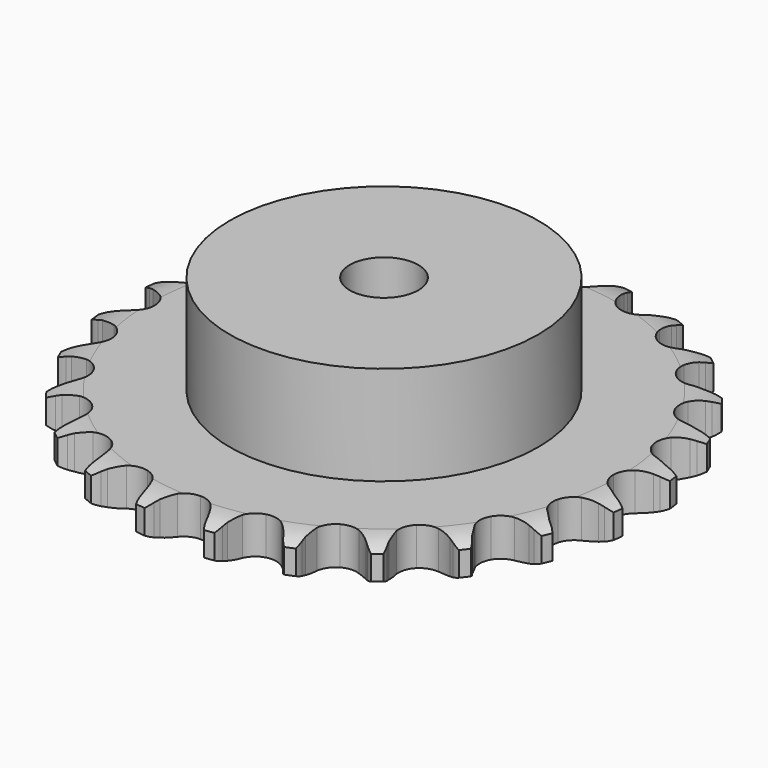
from build123d import *

# Parameters (mm, degrees)
PAD_DEPTH         = 11.1
SKETCH001_R       = 45
PAD001_DEPTH      = 40
SKETCH002_R       = 10
POCKET_DEPTH      = 0.001
POCKET_DEPTH_BACK = 40.001


with BuildPart() as part:
    # Sprocket → Pad (new body)
    with BuildSketch(Plane.XY):
        with BuildLine():
            ThreePointArc((-10.307817, 78.29564), (-8.698653, 76.541305), (-7.554291, 74.453833))
            Line((-7.554291, 74.453833), (-6.968236, 72.99106))
            ThreePointArc((-6.968236, 72.99106), (-6.032923, 71.051956), (-4.842054, 69.258421))
            ThreePointArc((-4.842054, 69.258421), (-2.69941, 67.499998), (0, 66.870584))
            ThreePointArc((0, 66.870584), (2.69941, 67.499998), (4.842054, 69.258421))
            ThreePointArc((4.842054, 69.258421), (6.032923, 71.051956), (6.968236, 72.99106))
            Line((6.968236, 72.99106), (7.554291, 74.453833))
            ThreePointArc((7.554291, 74.453833), (8.698653, 76.541305), (10.307817, 78.29564))
            ThreePointArc((10.307817, 78.29564), (11.408094, 76.1846), (11.973185, 73.872074))
            Line((11.973185, 73.872074), (12.160677, 72.307462))
            ThreePointArc((12.160677, 72.307462), (12.562243, 70.192354), (13.248334, 68.151713))
            ThreePointArc((13.248334, 68.151713), (14.862856, 65.89865), (17.307381, 64.592024))
            ThreePointArc((17.307381, 64.592024), (20.077714, 64.501333), (22.602463, 65.645282))
            Line((22.602463, 65.645282), (25.622276, 68.700438))
            ThreePointArc((25.622276, 68.700438), (26.078841, 69.342877), (26.566954, 69.961685))
            ThreePointArc((26.566954, 69.961685), (28.212601, 71.681846), (30.220989, 72.959922))
            ThreePointArc((30.220989, 72.959922), (30.737398, 70.63604), (30.684708, 68.256056))
            Line((30.684708, 68.256056), (30.46086, 66.696231))
            ThreePointArc((30.46086, 66.696231), (30.301313, 64.54926), (30.435869, 62.400579))
            ThreePointArc((30.435869, 62.400579), (31.412242, 59.806418), (33.435292, 57.911625))
            ThreePointArc((33.435292, 57.911625), (36.087756, 57.107009), (38.822552, 57.558525))
            Line((38.822552, 57.558525), (42.5302, 59.727994))
            ThreePointArc((42.5302, 59.727994), (43.137483, 60.230375), (43.769124, 60.701765))
            ThreePointArc((43.769124, 60.701765), (45.803906, 61.937388), (48.074651, 62.652105))
            ThreePointArc((48.074651, 62.652105), (47.971999, 60.273752), (47.30512, 57.9885))
            Line((47.30512, 57.9885), (46.685186, 56.539761))
            ThreePointArc((46.685186, 56.539761), (45.975399, 54.507241), (45.54925, 52.396948))
            ThreePointArc((45.54925, 52.396948), (45.820936, 49.638477), (47.284644, 47.284644))
            ThreePointArc((47.284644, 47.284644), (49.638477, 45.820936), (52.396948, 45.54925))
            Line((52.396948, 45.54925), (56.539761, 46.685186))
            ThreePointArc((56.539761, 46.685186), (57.256377, 47.013272), (57.9885, 47.30512))
            ThreePointArc((57.9885, 47.30512), (60.273752, 47.971999), (62.652105, 48.074651))
            ThreePointArc((62.652105, 48.074651), (61.937388, 45.803906), (60.701765, 43.769124))
            Line((60.701765, 43.769124), (59.727994, 42.5302))
            ThreePointArc((59.727994, 42.5302), (58.516337, 40.750643), (57.558525, 38.822552))
            ThreePointArc((57.558525, 38.822552), (57.107009, 36.087756), (57.911625, 33.435292))
            ThreePointArc((57.911625, 33.435292), (59.806418, 31.412242), (62.400579, 30.435869))
            Line((62.400579, 30.435869), (66.696231, 30.46086))
            ThreePointArc((66.696231, 30.46086), (67.473344, 30.592293), (68.256056, 30.684708))
            ThreePointArc((68.256056, 30.684708), (70.63604, 30.737398), (72.959922, 30.220989))
            ThreePointArc((72.959922, 30.220989), (71.681846, 28.212601), (69.961685, 26.566954))
            Line((69.961685, 26.566954), (68.700438, 25.622276))
            ThreePointArc((68.700438, 25.622276), (67.069483, 24.216956), (65.645282, 22.602463))
            ThreePointArc((65.645282, 22.602463), (64.501333, 20.077714), (64.592024, 17.307381))
            ThreePointArc((64.592024, 17.307381), (65.89865, 14.862856), (68.151713, 13.248334))
            Line((68.151713, 13.248334), (72.307462, 12.160677))
            ThreePointArc((72.307462, 12.160677), (73.092113, 12.0865), (73.872074, 11.973185))
            ThreePointArc((73.872074, 11.973185), (76.1846, 11.408094), (78.29564, 10.307817))
            ThreePointArc((78.29564, 10.307817), (76.541305, 8.698653), (74.453833, 7.554291))
            Line((74.453833, 7.554291), (72.99106, 6.968236))
            ThreePointArc((72.99106, 6.968236), (71.051956, 6.032923), (69.258421, 4.842054))
            ThreePointArc((69.258421, 4.842054), (67.499998, 2.69941), (66.870584, 0))
            ThreePointArc((66.870584, 0), (67.499998, -2.69941), (69.258421, -4.842054))
            Line((69.258421, -4.842054), (72.99106, -6.968236))
            ThreePointArc((72.99106, -6.968236), (73.729776, -7.242969), (74.453833, -7.554291))
            ThreePointArc((74.453833, -7.554291), (76.541305, -8.698653), (78.29564, -10.307817))
            ThreePointArc((78.29564, -10.307817), (76.1846, -11.408094), (73.872074, -11.973185))
            Line((73.872074, -11.973185), (72.307462, -12.160677))
            ThreePointArc((72.307462, -12.160677), (70.192354, -12.562243), (68.151713, -13.248334))
            ThreePointArc((68.151713, -13.248334), (65.89865, -14.862856), (64.592024, -17.307381))
            ThreePointArc((64.592024, -17.307381), (64.501333, -20.077714), (65.645282, -22.602463))
            Line((65.645282, -22.602463), (68.700438, -25.622276))
            ThreePointArc((68.700438, -25.622276), (69.342877, -26.078841), (69.961685, -26.566954))
            ThreePointArc((69.961685, -26.566954), (71.681846, -28.212601), (72.959922, -30.220989))
            ThreePointArc((72.959922, -30.220989), (70.63604, -30.737398), (68.256056, -30.684708))
            Line((68.256056, -30.684708), (66.696231, -30.46086))
            ThreePointArc((66.696231, -30.46086), (64.54926, -30.301313), (62.400579, -30.435869))
            ThreePointArc((62.400579, -30.435869), (59.806418, -31.412242), (57.911625, -33.435292))
            ThreePointArc((57.911625, -33.435292), (57.107009, -36.087756), (57.558525, -38.822552))
            Line((57.558525, -38.822552), (59.727994, -42.5302))
            ThreePointArc((59.727994, -42.5302), (60.230375, -43.137483), (60.701765, -43.769124))
            ThreePointArc((60.701765, -43.769124), (61.937388, -45.803906), (62.652105, -48.074651))
            ThreePointArc((62.652105, -48.074651), (60.273752, -47.971999), (57.9885, -47.30512))
            Line((57.9885, -47.30512), (56.539761, -46.685186))
            ThreePointArc((56.539761, -46.685186), (54.507241, -45.975399), (52.396948, -45.54925))
            ThreePointArc((52.396948, -45.54925), (49.638477, -45.820936), (47.284644, -47.284644))
            ThreePointArc((47.284644, -47.284644), (45.820936, -49.638477), (45.54925, -52.396948))
            Line((45.54925, -52.396948), (46.685186, -56.539761))
            ThreePointArc((46.685186, -56.539761), (47.013272, -57.256377), (47.30512, -57.9885))
            ThreePointArc((47.30512, -57.9885), (47.971999, -60.273752), (48.074651, -62.652105))
            ThreePointArc((48.074651, -62.652105), (45.803906, -61.937388), (43.769124, -60.701765))
            Line((43.769124, -60.701765), (42.5302, -59.727994))
            ThreePointArc((42.5302, -59.727994), (40.750643, -58.516337), (38.822552, -57.558525))
            ThreePointArc((38.822552, -57.558525), (36.087756, -57.107009), (33.435292, -57.911625))
            ThreePointArc((33.435292, -57.911625), (31.412242, -59.806418), (30.435869, -62.400579))
            Line((30.435869, -62.400579), (30.46086, -66.696231))
            ThreePointArc((30.46086, -66.696231), (30.592293, -67.473344), (30.684708, -68.256056))
            ThreePointArc((30.684708, -68.256056), (30.737398, -70.63604), (30.220989, -72.959922))
            ThreePointArc((30.220989, -72.959922), (28.212601, -71.681846), (26.566954, -69.961685))
            Line((26.566954, -69.961685), (25.622276, -68.700438))
            ThreePointArc((25.622276, -68.700438), (24.216956, -67.069483), (22.602463, -65.645282))
            ThreePointArc((22.602463, -65.645282), (20.077714, -64.501333), (17.307381, -64.592024))
            ThreePointArc((17.307381, -64.592024), (14.862856, -65.89865), (13.248334, -68.151713))
            Line((13.248334, -68.151713), (12.160677, -72.307462))
            ThreePointArc((12.160677, -72.307462), (12.0865, -73.092113), (11.973185, -73.872074))
            ThreePointArc((11.973185, -73.872074), (11.408094, -76.1846), (10.307817, -78.29564))
            ThreePointArc((10.307817, -78.29564), (8.698653, -76.541305), (7.554291, -74.453833))
            Line((7.554291, -74.453833), (6.968236, -72.99106))
            ThreePointArc((6.968236, -72.99106), (6.032923, -71.051956), (4.842054, -69.258421))
            ThreePointArc((4.842054, -69.258421), (2.69941, -67.499998), (0, -66.870584))
            ThreePointArc((0, -66.870584), (-2.69941, -67.499998), (-4.842054, -69.258421))
            Line((-4.842054, -69.258421), (-6.968236, -72.99106))
            ThreePointArc((-6.968236, -72.99106), (-7.242969, -73.729776), (-7.554291, -74.453833))
            ThreePointArc((-7.554291, -74.453833), (-8.698653, -76.541305), (-10.307817, -78.29564))
            ThreePointArc((-10.307817, -78.29564), (-11.408094, -76.1846), (-11.973185, -73.872074))
            Line((-11.973185, -73.872074), (-12.160677, -72.307462))
            ThreePointArc((-12.160677, -72.307462), (-12.562243, -70.192354), (-13.248334, -68.151713))
            ThreePointArc((-13.248334, -68.151713), (-14.862856, -65.89865), (-17.307381, -64.592024))
            ThreePointArc((-17.307381, -64.592024), (-20.077714, -64.501333), (-22.602463, -65.645282))
            Line((-22.602463, -65.645282), (-25.622276, -68.700438))
            ThreePointArc((-25.622276, -68.700438), (-26.078841, -69.342877), (-26.566954, -69.961685))
            ThreePointArc((-26.566954, -69.961685), (-28.212601, -71.681846), (-30.220989, -72.959922))
            ThreePointArc((-30.220989, -72.959922), (-30.737398, -70.63604), (-30.684708, -68.256056))
            Line((-30.684708, -68.256056), (-30.46086, -66.696231))
            ThreePointArc((-30.46086, -66.696231), (-30.301313, -64.54926), (-30.435869, -62.400579))
            ThreePointArc((-30.435869, -62.400579), (-31.412242, -59.806418), (-33.435292, -57.911625))
            ThreePointArc((-33.435292, -57.911625), (-36.087756, -57.107009), (-38.822552, -57.558525))
            Line((-38.822552, -57.558525), (-42.5302, -59.727994))
            ThreePointArc((-42.5302, -59.727994), (-43.137483, -60.230375), (-43.769124, -60.701765))
            ThreePointArc((-43.769124, -60.701765), (-45.803906, -61.937388), (-48.074651, -62.652105))
            ThreePointArc((-48.074651, -62.652105), (-47.971999, -60.273752), (-47.30512, -57.9885))
            Line((-47.30512, -57.9885), (-46.685186, -56.539761))
            ThreePointArc((-46.685186, -56.539761), (-45.975399, -54.507241), (-45.54925, -52.396948))
            ThreePointArc((-45.54925, -52.396948), (-45.820936, -49.638477), (-47.284644, -47.284644))
            ThreePointArc((-47.284644, -47.284644), (-49.638477, -45.820936), (-52.396948, -45.54925))
            Line((-52.396948, -45.54925), (-56.539761, -46.685186))
            ThreePointArc((-56.539761, -46.685186), (-57.256377, -47.013272), (-57.9885, -47.30512))
            ThreePointArc((-57.9885, -47.30512), (-60.273752, -47.971999), (-62.652105, -48.074651))
            ThreePointArc((-62.652105, -48.074651), (-61.937388, -45.803906), (-60.701765, -43.769124))
            Line((-60.701765, -43.769124), (-59.727994, -42.5302))
            ThreePointArc((-59.727994, -42.5302), (-58.516337, -40.750643), (-57.558525, -38.822552))
            ThreePointArc((-57.558525, -38.822552), (-57.107009, -36.087756), (-57.911625, -33.435292))
            ThreePointArc((-57.911625, -33.435292), (-59.806418, -31.412242), (-62.400579, -30.435869))
            Line((-62.400579, -30.435869), (-66.696231, -30.46086))
            ThreePointArc((-66.696231, -30.46086), (-67.473344, -30.592293), (-68.256056, -30.684708))
            ThreePointArc((-68.256056, -30.684708), (-70.63604, -30.737398), (-72.959922, -30.220989))
            ThreePointArc((-72.959922, -30.220989), (-71.681846, -28.212601), (-69.961685, -26.566954))
            Line((-69.961685, -26.566954), (-68.700438, -25.622276))
            ThreePointArc((-68.700438, -25.622276), (-67.069483, -24.216956), (-65.645282, -22.602463))
            ThreePointArc((-65.645282, -22.602463), (-64.501333, -20.077714), (-64.592024, -17.307381))
            ThreePointArc((-64.592024, -17.307381), (-65.89865, -14.862856), (-68.151713, -13.248334))
            Line((-68.151713, -13.248334), (-72.307462, -12.160677))
            ThreePointArc((-72.307462, -12.160677), (-73.092113, -12.0865), (-73.872074, -11.973185))
            ThreePointArc((-73.872074, -11.973185), (-76.1846, -11.408094), (-78.29564, -10.307817))
            ThreePointArc((-78.29564, -10.307817), (-76.541305, -8.698653), (-74.453833, -7.554291))
            Line((-74.453833, -7.554291), (-72.99106, -6.968236))
            ThreePointArc((-72.99106, -6.968236), (-71.051956, -6.032923), (-69.258421, -4.842054))
            ThreePointArc((-69.258421, -4.842054), (-67.499998, -2.69941), (-66.870584, 0))
            ThreePointArc((-66.870584, 0), (-67.499998, 2.69941), (-69.258421, 4.842054))
            Line((-69.258421, 4.842054), (-72.99106, 6.968236))
            ThreePointArc((-72.99106, 6.968236), (-73.729776, 7.242969), (-74.453833, 7.554291))
            ThreePointArc((-74.453833, 7.554291), (-76.541305, 8.698653), (-78.29564, 10.307817))
            ThreePointArc((-78.29564, 10.307817), (-76.1846, 11.408094), (-73.872074, 11.973185))
            Line((-73.872074, 11.973185), (-72.307462, 12.160677))
            ThreePointArc((-72.307462, 12.160677), (-70.192354, 12.562243), (-68.151713, 13.248334))
            ThreePointArc((-68.151713, 13.248334), (-65.89865, 14.862856), (-64.592024, 17.307381))
            ThreePointArc((-64.592024, 17.307381), (-64.501333, 20.077714), (-65.645282, 22.602463))
            Line((-65.645282, 22.602463), (-68.700438, 25.622276))
            ThreePointArc((-68.700438, 25.622276), (-69.342877, 26.078841), (-69.961685, 26.566954))
            ThreePointArc((-69.961685, 26.566954), (-71.681846, 28.212601), (-72.959922, 30.220989))
            ThreePointArc((-72.959922, 30.220989), (-70.63604, 30.737398), (-68.256056, 30.684708))
            Line((-68.256056, 30.684708), (-66.696231, 30.46086))
            ThreePointArc((-66.696231, 30.46086), (-64.54926, 30.301313), (-62.400579, 30.435869))
            ThreePointArc((-62.400579, 30.435869), (-59.806418, 31.412242), (-57.911625, 33.435292))
            ThreePointArc((-57.911625, 33.435292), (-57.107009, 36.087756), (-57.558525, 38.822552))
            Line((-57.558525, 38.822552), (-59.727994, 42.5302))
            ThreePointArc((-59.727994, 42.5302), (-60.230375, 43.137483), (-60.701765, 43.769124))
            ThreePointArc((-60.701765, 43.769124), (-61.937388, 45.803906), (-62.652105, 48.074651))
            ThreePointArc((-62.652105, 48.074651), (-60.273752, 47.971999), (-57.9885, 47.30512))
            Line((-57.9885, 47.30512), (-56.539761, 46.685186))
            ThreePointArc((-56.539761, 46.685186), (-54.507241, 45.975399), (-52.396948, 45.54925))
            ThreePointArc((-52.396948, 45.54925), (-49.638477, 45.820936), (-47.284644, 47.284644))
            ThreePointArc((-47.284644, 47.284644), (-45.820936, 49.638477), (-45.54925, 52.396948))
            Line((-45.54925, 52.396948), (-46.685186, 56.539761))
            ThreePointArc((-46.685186, 56.539761), (-47.013272, 57.256377), (-47.30512, 57.9885))
            ThreePointArc((-47.30512, 57.9885), (-47.971999, 60.273752), (-48.074651, 62.652105))
            ThreePointArc((-48.074651, 62.652105), (-45.803906, 61.937388), (-43.769124, 60.701765))
            Line((-43.769124, 60.701765), (-42.5302, 59.727994))
            ThreePointArc((-42.5302, 59.727994), (-40.750643, 58.516337), (-38.822552, 57.558525))
            ThreePointArc((-38.822552, 57.558525), (-36.087756, 57.107009), (-33.435292, 57.911625))
            ThreePointArc((-33.435292, 57.911625), (-31.412242, 59.806418), (-30.435869, 62.400579))
            Line((-30.435869, 62.400579), (-30.46086, 66.696231))
            ThreePointArc((-30.46086, 66.696231), (-30.592293, 67.473344), (-30.684708, 68.256056))
            ThreePointArc((-30.684708, 68.256056), (-30.737398, 70.63604), (-30.220989, 72.959922))
            ThreePointArc((-30.220989, 72.959922), (-28.212601, 71.681846), (-26.566954, 69.961685))
            Line((-26.566954, 69.961685), (-25.622276, 68.700438))
            ThreePointArc((-25.622276, 68.700438), (-24.216956, 67.069483), (-22.602463, 65.645282))
            ThreePointArc((-22.602463, 65.645282), (-20.077714, 64.501333), (-17.307381, 64.592024))
            ThreePointArc((-17.307381, 64.592024), (-14.862856, 65.89865), (-13.248334, 68.151713))
            Line((-13.248334, 68.151713), (-12.160677, 72.307462))
            ThreePointArc((-12.160677, 72.307462), (-12.0865, 73.092113), (-11.973185, 73.872074))
            ThreePointArc((-11.973185, 73.872074), (-11.408094, 76.1846), (-10.307817, 78.29564))
        make_face()
    extrude(amount=PAD_DEPTH)

    # Sketch → Groove (revolve, cut)
    with BuildSketch(Plane.XZ):
        with BuildLine():
            Line((68.464719, 0), (76.95, 0))
            Line((85.435281, 0), (76.95, 0))
            Line((85.435281, 11.1), (85.435281, 0))
            Line((76.95, 11.1), (85.435281, 11.1))
            Line((68.464719, 11.1), (76.95, 11.1))
            ThreePointArc((76.95, 9.1), (72.823618, 10.593242), (68.464719, 11.1))
            Line((76.95, 2), (76.95, 9.1))
            ThreePointArc((68.464719, 0), (72.823618, 0.506758), (76.95, 2))
        make_face()
    revolve(axis=Axis((0, 0, 0), (0, 0, 1)), mode=Mode.SUBTRACT)

    # Sketch001 → Pad001 (join)
    with BuildSketch(Plane.XY):
        Circle(SKETCH001_R)
    extrude(amount=PAD001_DEPTH)

    # Sketch002 → Pocket (cut, two sides)
    with BuildSketch(Plane.XY) as pocket_sk:
        Circle(SKETCH002_R)
    extrude(amount=-POCKET_DEPTH, mode=Mode.SUBTRACT)
    extrude(pocket_sk.sketch, amount=POCKET_DEPTH_BACK, mode=Mode.SUBTRACT)


solid = part.part
